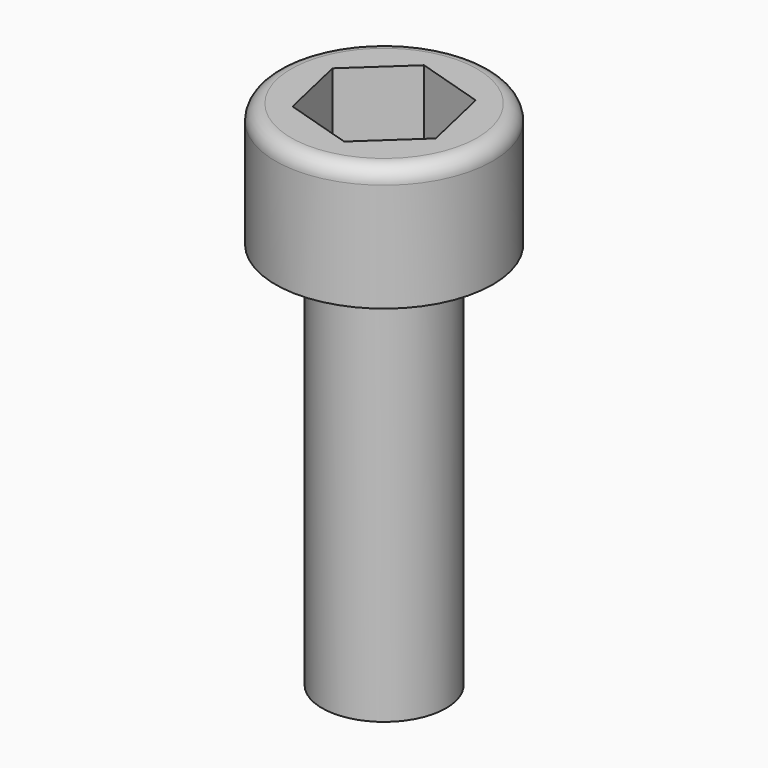
from build123d import *

# Parameters (mm, degrees)
F0_R     = 4
F4_DEPTH = 25
F1_R     = 7
F1_R_2   = 4
F5_DEPTH = 8
F2_DEPTH = 5
F3_R     = 1


with BuildPart() as f4:
    # F0 (on Top) → F4 (new body)
    with BuildSketch(Plane.XY):
        Circle(F0_R)
    extrude(amount=F4_DEPTH)


with BuildPart() as f5:
    # F1 (on face) → F5 (new body)
    with BuildSketch(Plane.XY.offset(25)):
        Circle(F1_R)
        Circle(F1_R_2, mode=Mode.SUBTRACT)
        Circle(F1_R_2)
    extrude(amount=F5_DEPTH)

    # F6 (on face) → F2 (cut)
    with BuildSketch(Plane.XY.offset(33)):
        Polygon((1.0275741013, -4.503046169), (4.4135394274, -1.3616178085), (3.3859653261, 3.1414283605), (-1.0275741013, 4.503046169), (-4.4135394274, 1.3616178085), (-3.3859653261, -3.1414283605), align=None)
    extrude(amount=-F2_DEPTH, mode=Mode.SUBTRACT)

    # F3
    f3_edges = [f5.edges().sort_by_distance(p)[0] for p in [
        (-7, 0, 33),
    ]]
    fillet(f3_edges, radius=F3_R)


solid = Compound([f4.part, f5.part])
